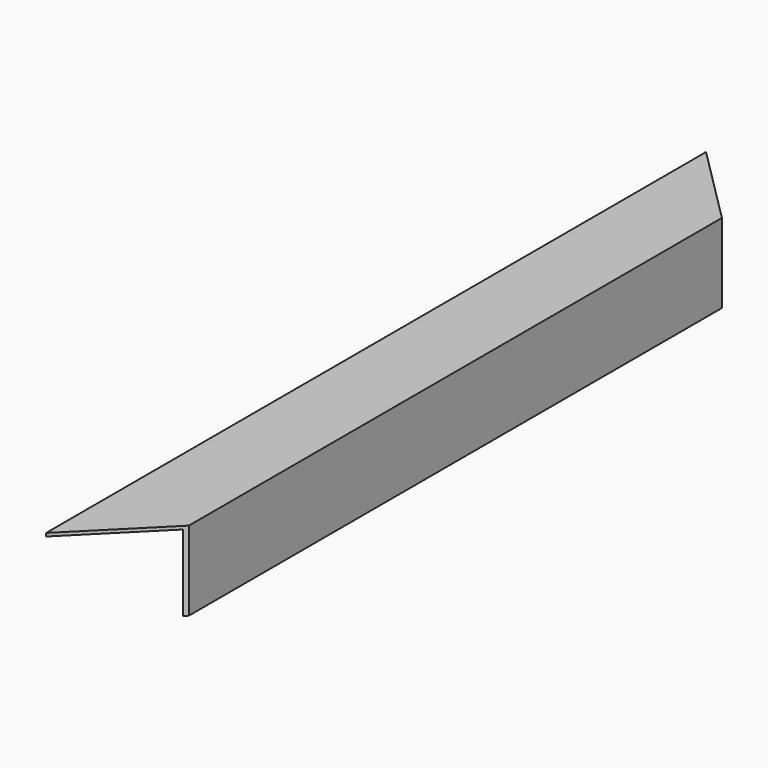
from build123d import *

# Parameters (mm, degrees)
F1_DEPTH = 520
F3_DEPTH = 50.001


with BuildPart() as f1:
    # F0 (on Front) → F1 (new body)
    with BuildSketch(Plane.XZ):
        Polygon((50, 0), (0, 0), (0, -2), (48, -2), (48, -50), (50, -50), align=None)
    extrude(amount=-F1_DEPTH)

    # F2 (on face) → F3 (cut, through all)
    with BuildSketch(Plane.XY):
        Polygon((50, 50), (0, 0), (50, 0), align=None)
        Polygon((50, 520), (0, 520), (50, 470), align=None)
    extrude(amount=-F3_DEPTH, mode=Mode.SUBTRACT)


solid = f1.part
